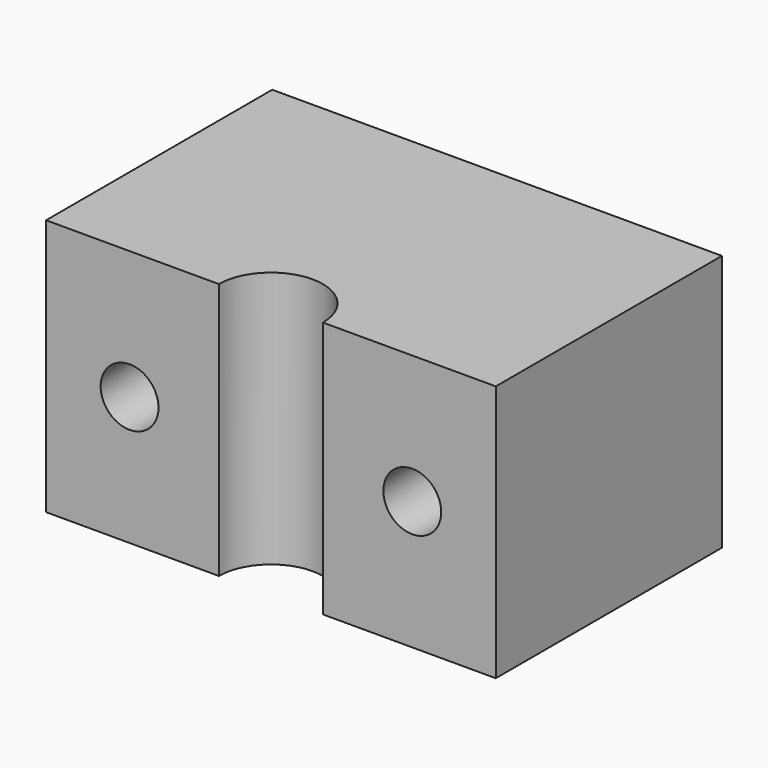
from build123d import *

# Parameters (mm, degrees)
PAD_DEPTH    = 20
SKETCH001_R  = 2.25
POCKET_DEPTH = 22.001


with BuildPart() as part:
    # Sketch → Pad (new body)
    with BuildSketch(Plane.XY):
        with BuildLine():
            Line((-17.5, 22), (17.5, 22))
            Line((17.5, 22), (17.5, 0))
            Line((17.5, 0), (4.05, 0))
            ThreePointArc((4.05, 0), (0, 4.05), (-4.05, 0))
            Line((-17.5, 0), (-4.05, 0))
            Line((-17.5, 0), (-17.5, 22))
        make_face()
    extrude(amount=PAD_DEPTH)

    # Sketch001 → Pocket (cut, through all)
    with BuildSketch(Plane.XZ):
        with Locations((-11, 10)):
            Circle(SKETCH001_R)
        with Locations((11, 10)):
            Circle(SKETCH001_R)
    extrude(amount=-POCKET_DEPTH, mode=Mode.SUBTRACT)


solid = part.part
